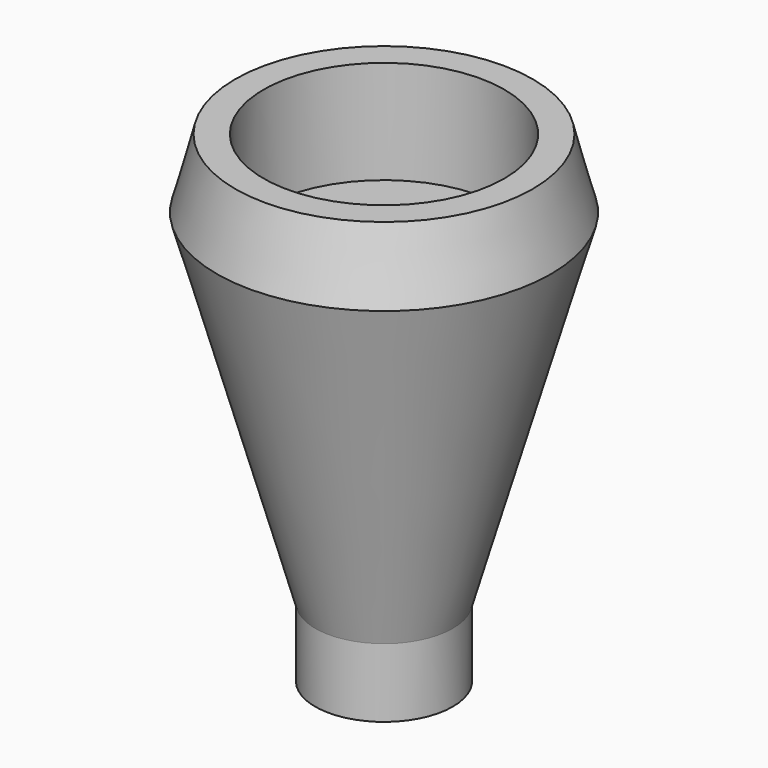
from build123d import *

# Parameters (mm, degrees)
F2_R     = 11.1125
F2_R_2   = 4.7625
F3_DEPTH = 9.525
F4_DEPTH = 31.75


with BuildPart() as f1:
    # F0 (on Front) → F1 (revolve)
    with BuildSketch(Plane.XZ):
        Polygon((-6.35, 29.4268268501), (-6.35, -15.0231731499), (0, -15.0231731499), (0, -8.6731731499), (9.0779721894, 23.0768268501), (7.3764948174, 29.4268268501), align=None)
    revolve(axis=Axis((-6.35, 0, 7.2018268501), (0, 0, -1)))

    # F2 (on face) → F3 (cut)
    with BuildSketch(Plane.XY.offset(29.4268268501)):
        with Locations((-6.35, 0)):
            Circle(F2_R)
        with Locations((-6.35, 0)):
            Circle(F2_R_2, mode=Mode.SUBTRACT)
    extrude(amount=-F3_DEPTH, mode=Mode.SUBTRACT)

    # F4 (cut): a face of the model
    f4_faces = [f1.faces().sort_by_distance(p)[0] for p in [
        (-6.35, 0, 29.4268268501),
    ]]
    extrude(f4_faces, amount=-F4_DEPTH, mode=Mode.SUBTRACT)


solid = f1.part
